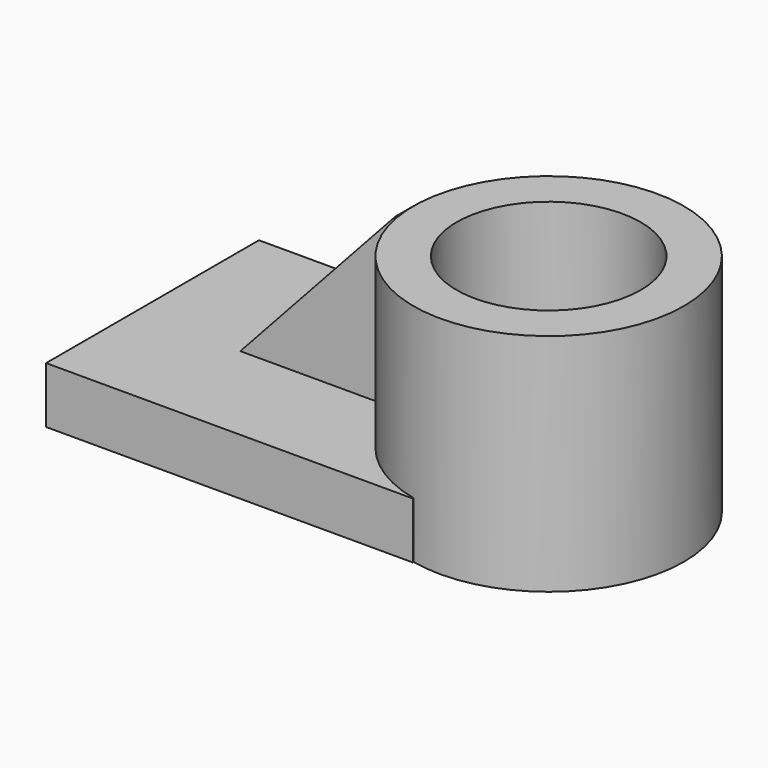
from build123d import *

# Parameters (mm, degrees)
F0_W     = 82.760722
F0_H     = 60.0374
F1_DEPTH = 12.7
F2_R     = 30.531053
F3_DEPTH = 50.8
F5_DEPTH = 5.08
F6_R     = 20.769196
F7_DEPTH = 50.801


with BuildPart() as f1:
    # F0 (on Top) → F1 (new body)
    with BuildSketch(Plane.XY):
        Rectangle(F0_W, F0_H)
    extrude(amount=F1_DEPTH)

    # F2 (on Top) → F3 (join)
    with BuildSketch(Plane.XY):
        with Locations((47.992117, 0.027034)):
            Circle(F2_R)
    extrude(amount=F3_DEPTH)

    # F4 (on Front) → F5 (join)
    with BuildSketch(Plane.XZ):
        Polygon((-17.495457, 12.7), (17.461064, 12.7), (17.461064, 50.8), align=None)
    extrude(amount=F5_DEPTH)

    # F6 (on face) → F7 (cut, through all)
    with BuildSketch(Plane.XY.offset(50.8)):
        with Locations((47.992117, 0.027034)):
            Circle(F6_R)
    extrude(amount=-F7_DEPTH, mode=Mode.SUBTRACT)


solid = f1.part
